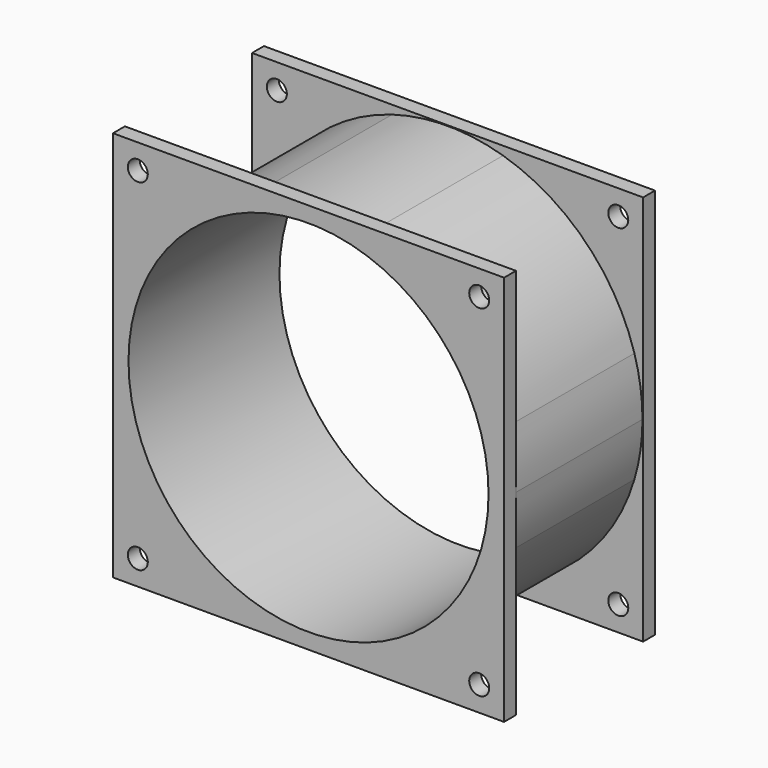
from build123d import *

# Parameters (mm, degrees)
F0_W     = 80.01
F0_H     = 80.01
F0_R     = 2.0447
F1_DEPTH = 3.048
F0_R_2   = 36.83
F2_DEPTH = 35.56
F3_W     = 80.01
F3_H     = 80.01
F3_R     = 2.0447
F3_R_2   = 36.83
F4_DEPTH = 3.048


with BuildPart() as f1:
    # F0 (on Front) → F1 (new body)
    with BuildSketch(Plane.XZ):
        Rectangle(F0_W, F0_H)
        with BuildLine():
            Line((11.355675013, 38.227), (24.6347928475, 38.227))
            Line((24.6347928475, 38.227), (38.227, 38.227))
            Line((38.227, 38.227), (38.227, 24.6347928475))
            Line((38.227, 24.6347928475), (38.227, 11.355675013))
            ThreePointArc((38.227, 11.355675013), (39.463091554, 5.737533355), (39.878, 0))
            ThreePointArc((39.878, 0), (39.463091554, -5.737533355), (38.227, -11.355675013))
            Line((38.227, -11.355675013), (38.227, -24.6347928475))
            Line((38.227, -24.6347928475), (38.227, -38.227))
            Line((38.227, -38.227), (24.6347928475, -38.227))
            Line((24.6347928475, -38.227), (11.355675013, -38.227))
            ThreePointArc((11.355675013, -38.227), (0, -39.878), (-11.355675013, -38.227))
            Line((-11.355675013, -38.227), (-24.6347928475, -38.227))
            Line((-24.6347928475, -38.227), (-38.227, -38.227))
            Line((-38.227, -38.227), (-38.227, -24.6347928475))
            Line((-38.227, -24.6347928475), (-38.227, -11.355675013))
            ThreePointArc((-38.227, -11.355675013), (-39.878, 0), (-38.227, 11.355675013))
            Line((-38.227, 11.355675013), (-38.227, 24.6347928475))
            Line((-38.227, 24.6347928475), (-38.227, 38.227))
            Line((-38.227, 38.227), (-24.6347928475, 38.227))
            Line((-24.6347928475, 38.227), (-11.355675013, 38.227))
            ThreePointArc((-11.355675013, 38.227), (0, 39.878), (11.355675013, 38.227))
        make_face(mode=Mode.SUBTRACT)
        Polygon((38.227, 38.227), (24.6347928475, 38.227), (38.227, 24.6347928475), align=None)
        with Locations((34.925, 34.925)):
            Circle(F0_R, mode=Mode.SUBTRACT)
        Polygon((38.227, -38.227), (38.227, -24.6347928475), (24.6347928475, -38.227), align=None)
        with Locations((34.925, -34.925)):
            Circle(F0_R, mode=Mode.SUBTRACT)
        Polygon((-24.6347928475, -38.227), (-38.227, -24.6347928475), (-38.227, -38.227), align=None)
        with Locations((-34.925, -34.925)):
            Circle(F0_R, mode=Mode.SUBTRACT)
        Polygon((-38.227, 24.6347928475), (-24.6347928475, 38.227), (-38.227, 38.227), align=None)
        with Locations((-34.925, 34.925)):
            Circle(F0_R, mode=Mode.SUBTRACT)
        with BuildLine():
            Line((-11.355675013, 38.227), (11.355675013, 38.227))
            ThreePointArc((11.355675013, 38.227), (0, 39.878), (-11.355675013, 38.227))
        make_face()
        with BuildLine():
            ThreePointArc((39.878, 0), (39.463091554, 5.737533355), (38.227, 11.355675013))
            Line((38.227, 11.355675013), (38.227, -11.355675013))
            ThreePointArc((38.227, -11.355675013), (39.463091554, -5.737533355), (39.878, 0))
        make_face()
        with BuildLine():
            ThreePointArc((-11.355675013, -38.227), (0, -39.878), (11.355675013, -38.227))
            Line((11.355675013, -38.227), (-11.355675013, -38.227))
        make_face()
        with BuildLine():
            Line((-38.227, -11.355675013), (-38.227, 11.355675013))
            ThreePointArc((-38.227, 11.355675013), (-39.878, 0), (-38.227, -11.355675013))
        make_face()
        with BuildLine():
            ThreePointArc((-11.355675013, -38.227), (-28.1980042202, -28.1980042202), (-38.227, -11.355675013))
            Line((-38.227, -11.355675013), (-38.227, -24.6347928475))
            Line((-38.227, -24.6347928475), (-24.6347928475, -38.227))
            Line((-24.6347928475, -38.227), (-11.355675013, -38.227))
        make_face()
        with BuildLine():
            ThreePointArc((-38.227, 11.355675013), (-28.1980042202, 28.1980042202), (-11.355675013, 38.227))
            Line((-11.355675013, 38.227), (-24.6347928475, 38.227))
            Line((-24.6347928475, 38.227), (-38.227, 24.6347928475))
            Line((-38.227, 24.6347928475), (-38.227, 11.355675013))
        make_face()
        with BuildLine():
            Line((38.227, 24.6347928475), (24.6347928475, 38.227))
            Line((24.6347928475, 38.227), (11.355675013, 38.227))
            ThreePointArc((11.355675013, 38.227), (28.1980042202, 28.1980042202), (38.227, 11.355675013))
            Line((38.227, 11.355675013), (38.227, 24.6347928475))
        make_face()
        with BuildLine():
            Line((38.227, -24.6347928475), (38.227, -11.355675013))
            ThreePointArc((38.227, -11.355675013), (28.1980042202, -28.1980042202), (11.355675013, -38.227))
            Line((11.355675013, -38.227), (24.6347928475, -38.227))
            Line((24.6347928475, -38.227), (38.227, -24.6347928475))
        make_face()
    extrude(amount=F1_DEPTH)

    # F0 (on Front) → F2 (join)
    with BuildSketch(Plane.XZ):
        with BuildLine():
            ThreePointArc((38.227, 11.355675013), (28.1980042202, 28.1980042202), (11.355675013, 38.227))
            Line((11.355675013, 38.227), (-11.355675013, 38.227))
            ThreePointArc((-11.355675013, 38.227), (-28.1980042202, 28.1980042202), (-38.227, 11.355675013))
            Line((-38.227, 11.355675013), (-38.227, -11.355675013))
            ThreePointArc((-38.227, -11.355675013), (-28.1980042202, -28.1980042202), (-11.355675013, -38.227))
            Line((-11.355675013, -38.227), (11.355675013, -38.227))
            ThreePointArc((11.355675013, -38.227), (28.1980042202, -28.1980042202), (38.227, -11.355675013))
            Line((38.227, -11.355675013), (38.227, 11.355675013))
        make_face()
        Circle(F0_R_2, mode=Mode.SUBTRACT)
        with BuildLine():
            ThreePointArc((39.878, 0), (39.463091554, 5.737533355), (38.227, 11.355675013))
            Line((38.227, 11.355675013), (38.227, -11.355675013))
            ThreePointArc((38.227, -11.355675013), (39.463091554, -5.737533355), (39.878, 0))
        make_face()
        with BuildLine():
            Line((-38.227, -11.355675013), (-38.227, 11.355675013))
            ThreePointArc((-38.227, 11.355675013), (-39.878, 0), (-38.227, -11.355675013))
        make_face()
        with BuildLine():
            ThreePointArc((-11.355675013, -38.227), (0, -39.878), (11.355675013, -38.227))
            Line((11.355675013, -38.227), (-11.355675013, -38.227))
        make_face()
        with BuildLine():
            Line((-11.355675013, 38.227), (11.355675013, 38.227))
            ThreePointArc((11.355675013, 38.227), (0, 39.878), (-11.355675013, 38.227))
        make_face()
    extrude(amount=F2_DEPTH)

    # F3 (on face) → F4 (join)
    with BuildSketch(Plane.XZ.offset(35.56)):
        Rectangle(F3_W, F3_H)
        Polygon((-38.227, -38.227), (-38.227, -24.6347928475), (-38.227, 24.6347928475), (-38.227, 38.227), (-24.6347928475, 38.227), (24.6347928475, 38.227), (38.227, 38.227), (38.227, 24.6347928475), (38.227, -24.6347928475), (38.227, -38.227), (24.6347928475, -38.227), (-24.6347928475, -38.227), align=None, mode=Mode.SUBTRACT)
        Polygon((-24.6347928475, -38.227), (-38.227, -24.6347928475), (-38.227, -38.227), align=None)
        with Locations((-34.925, -34.925)):
            Circle(F3_R, mode=Mode.SUBTRACT)
        Polygon((-38.227, 38.227), (-38.227, 24.6347928475), (-24.6347928475, 38.227), align=None)
        with Locations((-34.925, 34.925)):
            Circle(F3_R, mode=Mode.SUBTRACT)
        Polygon((38.227, 38.227), (24.6347928475, 38.227), (38.227, 24.6347928475), align=None)
        with Locations((34.925, 34.925)):
            Circle(F3_R, mode=Mode.SUBTRACT)
        Polygon((38.227, -24.6347928475), (24.6347928475, -38.227), (38.227, -38.227), align=None)
        with Locations((34.925, -34.925)):
            Circle(F3_R, mode=Mode.SUBTRACT)
        with BuildLine():
            Line((-38.227, 11.355675013), (-38.227, -11.355675013))
            ThreePointArc((-38.227, -11.355675013), (-28.1980042202, -28.1980042202), (-11.355675013, -38.227))
            Line((-11.355675013, -38.227), (11.355675013, -38.227))
            ThreePointArc((11.355675013, -38.227), (28.1980042202, -28.1980042202), (38.227, -11.355675013))
            Line((38.227, -11.355675013), (38.227, 11.355675013))
            ThreePointArc((38.227, 11.355675013), (28.1980042202, 28.1980042202), (11.355675013, 38.227))
            Line((11.355675013, 38.227), (-11.355675013, 38.227))
            ThreePointArc((-11.355675013, 38.227), (-28.1980042202, 28.1980042202), (-38.227, 11.355675013))
        make_face()
        Circle(F3_R_2, mode=Mode.SUBTRACT)
        with BuildLine():
            ThreePointArc((38.227, -11.355675013), (28.1980042202, -28.1980042202), (11.355675013, -38.227))
            Line((11.355675013, -38.227), (24.6347928475, -38.227))
            Line((24.6347928475, -38.227), (38.227, -24.6347928475))
            Line((38.227, -24.6347928475), (38.227, -11.355675013))
        make_face()
        with BuildLine():
            Line((24.6347928475, 38.227), (11.355675013, 38.227))
            ThreePointArc((11.355675013, 38.227), (28.1980042202, 28.1980042202), (38.227, 11.355675013))
            Line((38.227, 11.355675013), (38.227, 24.6347928475))
            Line((38.227, 24.6347928475), (24.6347928475, 38.227))
        make_face()
        with BuildLine():
            Line((-38.227, 24.6347928475), (-38.227, 11.355675013))
            ThreePointArc((-38.227, 11.355675013), (-28.1980042202, 28.1980042202), (-11.355675013, 38.227))
            Line((-11.355675013, 38.227), (-24.6347928475, 38.227))
            Line((-24.6347928475, 38.227), (-38.227, 24.6347928475))
        make_face()
        with BuildLine():
            Line((-38.227, -11.355675013), (-38.227, -24.6347928475))
            Line((-38.227, -24.6347928475), (-24.6347928475, -38.227))
            Line((-24.6347928475, -38.227), (-11.355675013, -38.227))
            ThreePointArc((-11.355675013, -38.227), (-28.1980042202, -28.1980042202), (-38.227, -11.355675013))
        make_face()
    extrude(amount=F4_DEPTH)


solid = f1.part
